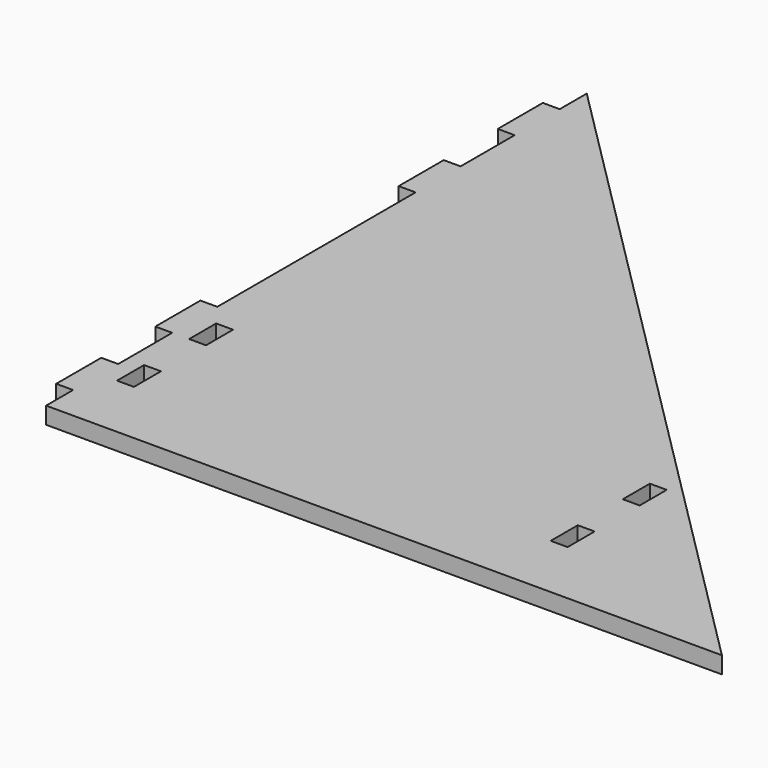
from build123d import *

# Parameters (mm, degrees)
F1_DEPTH = 19.05
F3_DEPTH = 6.35
F4_W     = 19.05
F4_H     = 38.1
F5_DEPTH = 25.4
F6_W     = 63.5
F6_H     = 19.05
F7_DEPTH = 19.05


with BuildPart() as f1:
    # F0 (on Top) → F1 (new body)
    with BuildSketch(Plane.XY):
        Polygon((-486.346572, 384.430752), (-486.346572, -377.569248), (275.653428, -377.569248), align=None)
    extrude(amount=F1_DEPTH)

    # F2 (on face) → F3 (cut)
    with BuildSketch(Plane(origin=(0, 0, 0), x_dir=(1, 0, 0), z_dir=(0, 0, -1))):
        with BuildLine():
            ThreePointArc((-422.846572, 123.569248), (-435.546572, 136.269248), (-448.246572, 123.569248))
            Line((-448.246572, 123.569248), (-422.846572, 123.569248))
        make_face()
        with BuildLine():
            ThreePointArc((-16.446572, 123.569248), (-29.146572, 136.269248), (-41.846572, 123.569248))
            Line((-41.846572, 123.569248), (-16.446572, 123.569248))
        make_face()
        with BuildLine():
            Line((-16.446572, 123.569248), (-41.846572, 123.569248))
            ThreePointArc((-41.846572, 123.569248), (-29.146572, 110.869248), (-16.446572, 123.569248))
        make_face()
        with BuildLine():
            ThreePointArc((-67.246572, 123.569248), (-79.946572, 136.269248), (-92.646572, 123.569248))
            Line((-92.646572, 123.569248), (-67.246572, 123.569248))
        make_face()
        with BuildLine():
            Line((-67.246572, 123.569248), (-92.646572, 123.569248))
            ThreePointArc((-92.646572, 123.569248), (-79.946572, 110.869248), (-67.246572, 123.569248))
        make_face()
        with BuildLine():
            ThreePointArc((-118.046572, 123.569248), (-130.746572, 136.269248), (-143.446572, 123.569248))
            Line((-143.446572, 123.569248), (-118.046572, 123.569248))
        make_face()
        with BuildLine():
            Line((-118.046572, 123.569248), (-143.446572, 123.569248))
            ThreePointArc((-143.446572, 123.569248), (-130.746572, 110.869248), (-118.046572, 123.569248))
        make_face()
        with BuildLine():
            ThreePointArc((-168.846572, 123.569248), (-181.546572, 136.269248), (-194.246572, 123.569248))
            Line((-194.246572, 123.569248), (-168.846572, 123.569248))
        make_face()
        with BuildLine():
            Line((-168.846572, 123.569248), (-194.246572, 123.569248))
            ThreePointArc((-194.246572, 123.569248), (-181.546572, 110.869248), (-168.846572, 123.569248))
        make_face()
        with BuildLine():
            ThreePointArc((-219.646572, 123.569248), (-232.346572, 136.269248), (-245.046572, 123.569248))
            Line((-245.046572, 123.569248), (-219.646572, 123.569248))
        make_face()
        with BuildLine():
            Line((-219.646572, 123.569248), (-245.046572, 123.569248))
            ThreePointArc((-245.046572, 123.569248), (-232.346572, 110.869248), (-219.646572, 123.569248))
        make_face()
        with BuildLine():
            ThreePointArc((-270.446572, 123.569248), (-283.146572, 136.269248), (-295.846572, 123.569248))
            Line((-295.846572, 123.569248), (-270.446572, 123.569248))
        make_face()
        with BuildLine():
            Line((-270.446572, 123.569248), (-295.846572, 123.569248))
            ThreePointArc((-295.846572, 123.569248), (-283.146572, 110.869248), (-270.446572, 123.569248))
        make_face()
        with BuildLine():
            ThreePointArc((-321.246572, 123.569248), (-333.946572, 136.269248), (-346.646572, 123.569248))
            Line((-346.646572, 123.569248), (-321.246572, 123.569248))
        make_face()
        with BuildLine():
            Line((-321.246572, 123.569248), (-346.646572, 123.569248))
            ThreePointArc((-346.646572, 123.569248), (-333.946572, 110.869248), (-321.246572, 123.569248))
        make_face()
        with BuildLine():
            ThreePointArc((-372.046572, 123.569248), (-384.746572, 136.269248), (-397.446572, 123.569248))
            Line((-397.446572, 123.569248), (-372.046572, 123.569248))
        make_face()
        with BuildLine():
            Line((-372.046572, 123.569248), (-397.446572, 123.569248))
            ThreePointArc((-397.446572, 123.569248), (-384.746572, 110.869248), (-372.046572, 123.569248))
        make_face()
        with BuildLine():
            Line((-422.846572, 123.569248), (-448.246572, 123.569248))
            ThreePointArc((-448.246572, 123.569248), (-435.546572, 110.869248), (-422.846572, 123.569248))
        make_face()
        with BuildLine():
            ThreePointArc((-308.546572, -130.430752), (-295.846572, -143.130752), (-283.146572, -130.430752))
            Line((-283.146572, -130.430752), (-308.546572, -130.430752))
        make_face()
        with BuildLine():
            Line((-308.546572, -130.430752), (-283.146572, -130.430752))
            ThreePointArc((-283.146572, -130.430752), (-295.846572, -117.730752), (-308.546572, -130.430752))
        make_face()
        with BuildLine():
            ThreePointArc((-435.546572, -130.430752), (-422.846572, -143.130752), (-410.146572, -130.430752))
            Line((-410.146572, -130.430752), (-435.546572, -130.430752))
        make_face()
        with BuildLine():
            Line((-435.546572, -130.430752), (-410.146572, -130.430752))
            ThreePointArc((-410.146572, -130.430752), (-422.846572, -117.730752), (-435.546572, -130.430752))
        make_face()
        with BuildLine():
            ThreePointArc((-372.046572, -130.430752), (-359.346572, -143.130752), (-346.646572, -130.430752))
            Line((-346.646572, -130.430752), (-372.046572, -130.430752))
        make_face()
        with BuildLine():
            Line((-372.046572, -130.430752), (-346.646572, -130.430752))
            ThreePointArc((-346.646572, -130.430752), (-359.346572, -117.730752), (-372.046572, -130.430752))
        make_face()
    extrude(amount=-F3_DEPTH, mode=Mode.SUBTRACT)

    # F4 (on face) → F5 (cut)
    with BuildSketch(Plane.XY.offset(19.05)):
        with Locations((-457.771572, -282.319248)):
            Rectangle(F4_W, F4_H)
        with Locations((-457.771572, -180.719248)):
            Rectangle(F4_W, F4_H)
        with Locations((31.178428, -282.319248)):
            Rectangle(F4_W, F4_H)
        with Locations((31.178428, -180.719248)):
            Rectangle(F4_W, F4_H)
    extrude(amount=-F5_DEPTH, mode=Mode.SUBTRACT)

    # F6 (on face) → F7 (join)
    with BuildSketch(Plane(origin=(-486.346572, 0, 0), x_dir=(0, -1, 0), z_dir=(-1, 0, 0))):
        with Locations((-314.580752, 9.525)):
            Rectangle(F6_W, F6_H)
        with Locations((307.719248, 9.525)):
            Rectangle(F6_W, F6_H)
        with Locations((168.019248, 9.525)):
            Rectangle(F6_W, F6_H)
        with Locations((-174.880752, 9.525)):
            Rectangle(F6_W, F6_H)
    extrude(amount=F7_DEPTH)


solid = f1.part
